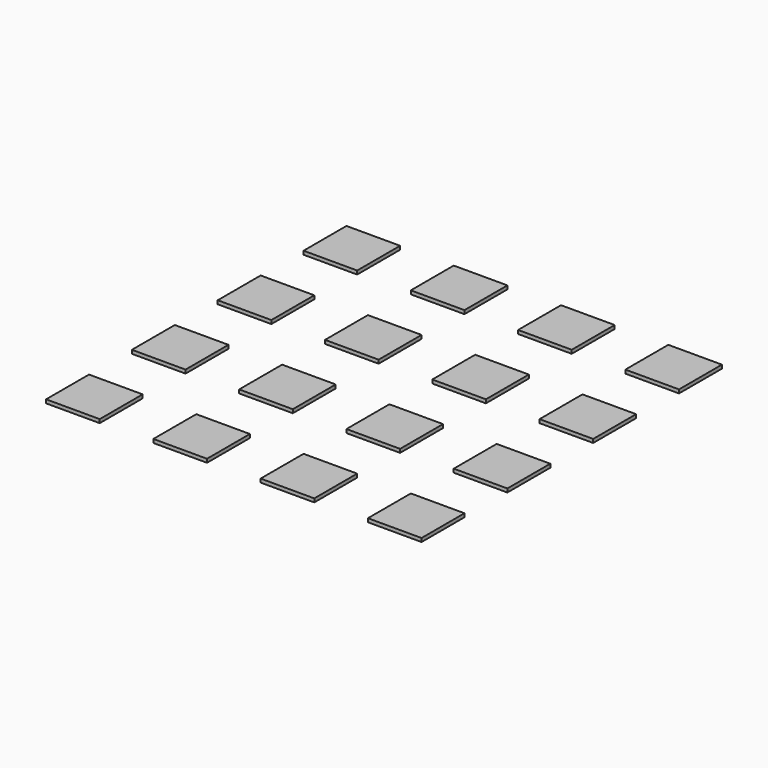
from build123d import *

# Parameters (mm, degrees)
SKETCH019_W      = 30
SKETCH019_H      = 30
PAD005_DEPTH     = 2
ARRAY007_X_COUNT = 4
ARRAY007_X_PITCH = 60
ARRAY007_Y_COUNT = 4
ARRAY007_Y_PITCH = 60


with BuildPart() as part:
    # Sketch019 → Pad005 (new body)
    with BuildSketch(Plane.XY):
        Rectangle(SKETCH019_W, SKETCH019_H)
    extrude(amount=-PAD005_DEPTH)

    # Array007 X: part ×4


with BuildPart() as part_1:
    add(part.part)
    with Locations(*[(i * ARRAY007_X_PITCH, 0, 0) for i in range(1, ARRAY007_X_COUNT)]):
        add(part.part)

    # Array007 Y: part ×4


with BuildPart() as part_2:
    add(part_1.part)
    with Locations(*[(0, i * ARRAY007_Y_PITCH, 0) for i in range(1, ARRAY007_Y_COUNT)]):
        add(part_1.part)


solid = part_2.part
